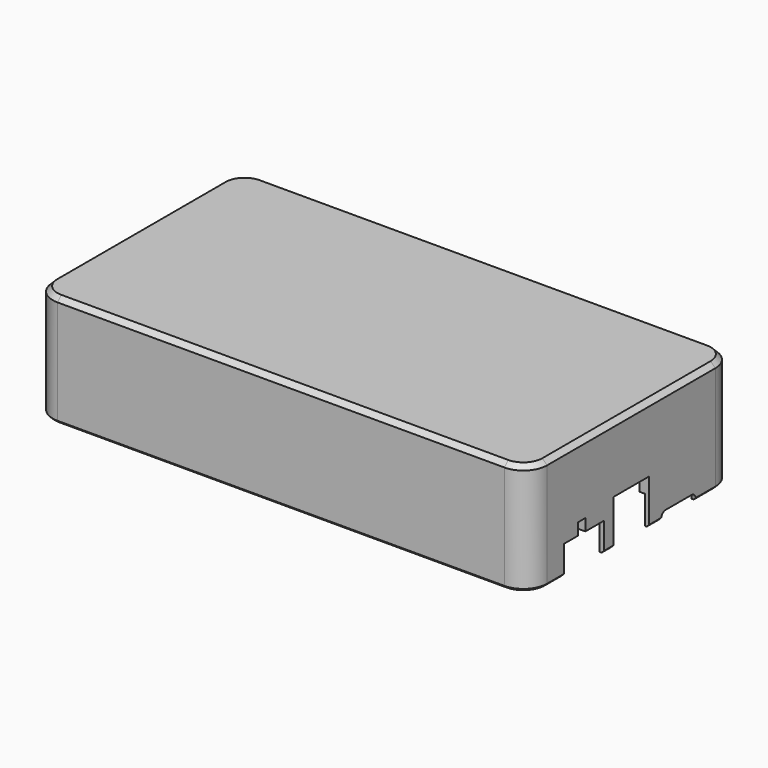
from build123d import *

# Parameters (mm, degrees)
PAD010_DEPTH                  = 23.5
POCKET028_DEPTH               = 6
PAD010_MIRRORED018_2_DEPTH    = 23.5
POCKET028_MIRRORED018_2_DEPTH = 6
PAD015_DEPTH                  = 2
PAD015_MIRRORED021_2_DEPTH    = 2
POCKET036_DEPTH               = 30.5
PAD016_DEPTH                  = 19.5
PAD016_FACE36_W               = 39
PAD016_FACE36_H               = 1.2
POCKET037_DEPTH               = 0.2
CHAMFER022_SIZE               = 0.5
CHAMFER020_SIZE               = 1
CHAMFER024_SIZE               = 0.2999
POCKET046_DEPTH               = 10
SKETCH049_W                   = 9.4
SKETCH049_H                   = 50
POCKET033_DEPTH               = 15
POCKET041_DEPTH               = 5
POCKET044_DEPTH               = 10
POCKET040_DEPTH               = 10
POCKET042_DEPTH               = 10
POCKET043_DEPTH               = 10
POCKET030_DEPTH               = 10


with BuildPart() as part:
    # Sketch033 (on DatumPlane) → Pad010 (new body)
    with BuildSketch(Plane.XY.offset(33)):
        with BuildLine():
            ThreePointArc((-47.2, 27.2), (-50.735534, 25.735534), (-52.2, 22.2))
            Line((-52.2, 0), (-52.2, 22.2))
            Line((-50.2, 0), (-52.2, 0))
            Line((-50.2, 22.2), (-50.2, 0))
            ThreePointArc((-47.2, 25.2), (-49.32132, 24.32132), (-50.2, 22.2))
            Line((0, 25.2), (-47.2, 25.2))
            Line((0, 27.2), (0, 25.2))
            Line((-47.2, 27.2), (0, 27.2))
        make_face()
    pad010 = extrude(amount=-PAD010_DEPTH)

    # Sketch031 (on Face10 of Pad010) → Pocket028 (cut)
    with BuildSketch(Plane(origin=(0, 0, 9.5), x_dir=(1, 0, 0), z_dir=(0, 0, -1))):
        with BuildLine():
            ThreePointArc((-50.2, -22.2), (-49.32132, -24.32132), (-47.2, -25.2))
            Line((-47.2, -25.2), (0, -25.2))
            Line((0, -25.2), (0, -26.3))
            Line((0, -26.3), (-47.2, -26.3))
            ThreePointArc((-51.3, -22.2), (-50.099138, -25.099138), (-47.2, -26.3))
            Line((-51.3, 0), (-51.3, -22.2))
            Line((-50.2, 0), (-51.3, 0))
            Line((-50.2, -22.2), (-50.2, 0))
        make_face()
    pocket028 = extrude(amount=-POCKET028_DEPTH, mode=Mode.SUBTRACT)

    # Sketch033 Mirrored018 2 → Pad010 Mirrored018 2 (add)
    with BuildSketch(Plane(origin=(0, 0, 33), x_dir=(-1, 0, 0), z_dir=(0, 0, -1))):
        with BuildLine():
            ThreePointArc((-47.2, 27.2), (-50.735534, 25.735534), (-52.2, 22.2))
            Line((-52.2, 0), (-52.2, 22.2))
            Line((-50.2, 0), (-52.2, 0))
            Line((-50.2, 22.2), (-50.2, 0))
            ThreePointArc((-47.2, 25.2), (-49.32132, 24.32132), (-50.2, 22.2))
            Line((0, 25.2), (-47.2, 25.2))
            Line((0, 27.2), (0, 25.2))
            Line((-47.2, 27.2), (0, 27.2))
        make_face()
    pad010_mirrored018_2 = extrude(amount=PAD010_MIRRORED018_2_DEPTH)

    # Sketch031 Mirrored018 2 → Pocket028 Mirrored018 2 (cut)
    with BuildSketch(Plane(origin=(0, 0, 9.5), x_dir=(-1, 0, 0), z_dir=(0, 0, 1))):
        with BuildLine():
            ThreePointArc((-50.2, -22.2), (-49.32132, -24.32132), (-47.2, -25.2))
            Line((-47.2, -25.2), (0, -25.2))
            Line((0, -25.2), (0, -26.3))
            Line((0, -26.3), (-47.2, -26.3))
            ThreePointArc((-51.3, -22.2), (-50.099138, -25.099138), (-47.2, -26.3))
            Line((-51.3, 0), (-51.3, -22.2))
            Line((-50.2, 0), (-51.3, 0))
            Line((-50.2, -22.2), (-50.2, 0))
        make_face()
    pocket028_mirrored018_2 = extrude(amount=POCKET028_MIRRORED018_2_DEPTH, mode=Mode.SUBTRACT)

    # Mirrored020: Pad010, Pocket028, Pad010 Mirrored018 2, Pocket028 Mirrored018 2 across Sketch033 H_Axis
    add(pad010.mirror(Plane(origin=(0, 0, 33), x_dir=(0, 0, 1), z_dir=(0, 1, 0))))
    add(pocket028.mirror(Plane(origin=(0, 0, 33), x_dir=(0, 0, 1), z_dir=(0, 1, 0))), mode=Mode.SUBTRACT)
    add(pad010_mirrored018_2.mirror(Plane(origin=(0, 0, 33), x_dir=(0, 0, 1), z_dir=(0, 1, 0))))
    add(pocket028_mirrored018_2.mirror(Plane(origin=(0, 0, 33), x_dir=(0, 0, 1), z_dir=(0, 1, 0))), mode=Mode.SUBTRACT)

    # Sketch044 (on DatumPlane) → Pad015 (join)
    with BuildSketch(Plane.XY.offset(33)):
        with BuildLine():
            ThreePointArc((-47.2, 25.2), (-49.32132, 24.32132), (-50.2, 22.2))
            Line((-50.2, 22.2), (-50.2, 0))
            Line((-50.2, 0), (0, 0))
            Line((0, 0), (0, 25.2))
            Line((0, 25.2), (-47.2, 25.2))
        make_face()
    pad015 = extrude(amount=-PAD015_DEPTH)

    # Sketch044 Mirrored021 2 → Pad015 Mirrored021 2 (add)
    with BuildSketch(Plane(origin=(0, 0, 33), x_dir=(-1, 0, 0), z_dir=(0, 0, -1))):
        with BuildLine():
            ThreePointArc((-47.2, 25.2), (-49.32132, 24.32132), (-50.2, 22.2))
            Line((-50.2, 22.2), (-50.2, 0))
            Line((-50.2, 0), (0, 0))
            Line((0, 0), (0, 25.2))
            Line((0, 25.2), (-47.2, 25.2))
        make_face()
    pad015_mirrored021_2 = extrude(amount=PAD015_MIRRORED021_2_DEPTH)

    # Mirrored027: Pad015, Pad015 Mirrored021 2 across Sketch044 H_Axis
    add(pad015.mirror(Plane(origin=(0, 0, 33), x_dir=(0, 0, 1), z_dir=(0, 1, 0))))
    add(pad015_mirrored021_2.mirror(Plane(origin=(0, 0, 33), x_dir=(0, 0, 1), z_dir=(0, 1, 0))))

    # Sketch055 → Pocket036 (cut, symmetric)
    with BuildSketch(Plane.YZ):
        with BuildLine():
            ThreePointArc((-26.1, 12.9), (-26.7, 12.3), (-26.1, 11.7))
            Line((-26.1, 12.9), (-26.1, 11.7))
        make_face()
    pocket036 = extrude(amount=POCKET036_DEPTH, both=True, mode=Mode.SUBTRACT)

    # Sketch055 → Pad016 (join, symmetric)
    with BuildSketch(Plane.YZ):
        with BuildLine():
            ThreePointArc((-26.1, 12.9), (-26.7, 12.3), (-26.1, 11.7))
            Line((-26.1, 12.9), (-26.1, 11.7))
        make_face()
    pad016 = extrude(amount=PAD016_DEPTH, both=True)

    # Pad016 Face36 → Pocket037 (cut)
    with BuildSketch(Plane(origin=(0, -26.1, 12.3), x_dir=(1, 0, 0), z_dir=(0, 1, 0))):
        Rectangle(PAD016_FACE36_W, PAD016_FACE36_H)
    pocket037 = extrude(amount=-POCKET037_DEPTH, mode=Mode.SUBTRACT)

    # Mirrored028: Pocket036, Pad016, Pocket037 across Sketch055 V_Axis
    add(pocket036.mirror(Plane(origin=(0, 0, 0), x_dir=(1, 0, 0), z_dir=(0, 1, 0))), mode=Mode.SUBTRACT)
    add(pad016.mirror(Plane(origin=(0, 0, 0), x_dir=(1, 0, 0), z_dir=(0, 1, 0))))
    add(pocket037.mirror(Plane(origin=(0, 0, 0), x_dir=(1, 0, 0), z_dir=(0, 1, 0))), mode=Mode.SUBTRACT)

    # Chamfer022
    chamfer022_edges = [part.edges().sort_by_distance(p)[0] for p in [
        (0, -27.2, 9.5),
    ]]
    chamfer(chamfer022_edges, length=CHAMFER022_SIZE)

    # Chamfer020
    chamfer020_edges = [part.edges().sort_by_distance(p)[0] for p in [
        (0, -27.2, 33),
    ]]
    chamfer(chamfer020_edges, length=CHAMFER020_SIZE)

    # Chamfer024
    chamfer024_edges = [part.edges().sort_by_distance(p)[0] for p in [
        (50.2, 0, 31),
    ]]
    chamfer(chamfer024_edges, length=CHAMFER024_SIZE)

    # Sketch041 (on DatumPlane) → Pocket046 (cut)
    with BuildSketch(Plane.YZ.offset(52.2)):
        Polygon((-7.2, 7.6), (-7.2, 15.6), (-12.1, 15.6), (-12.1, 18.1), (-14.1, 18.1), (-14.1, 15.6), (-17.8, 15.6), (-17.8, 7.6), (-17.8, 2.6), (-7.2, 2.6), align=None)
    extrude(amount=-POCKET046_DEPTH, mode=Mode.SUBTRACT)

    # Sketch049 (on DatumPlane) → Pocket033 (cut)
    with BuildSketch(Plane.YZ.offset(52.2)):
        with Locations((0, -6)):
            Rectangle(SKETCH049_W, SKETCH049_H)
    extrude(amount=-POCKET033_DEPTH, mode=Mode.SUBTRACT)

    # Sketch056 (on DatumPlane) → Pocket041 (cut)
    with BuildSketch(Plane.YZ.offset(52.2)):
        with BuildLine():
            Line((7.9, -40.25), (7.9, 9.75))
            ThreePointArc((9.15, 11), (8.266117, 10.633883), (7.9, 9.75))
            Line((9.15, 11), (15.85, 11))
            ThreePointArc((17.1, 9.75), (16.733883, 10.633883), (15.85, 11))
            Line((17.1, 9.75), (17.1, -40.25))
            Line((7.9, -40.25), (17.1, -40.25))
        make_face()
    extrude(amount=-POCKET041_DEPTH, mode=Mode.SUBTRACT)

    # Sketch050 (on DatumPlane) → Pocket044 (cut)
    with BuildSketch(Plane(origin=(-52.2, 0, 0), x_dir=(0, -1, 0), z_dir=(-1, 0, 0))):
        Polygon((-15.02, 7.6), (-15.02, 15.6), (-20.32, 15.6), (-20.32, 18.1), (-22.32, 18.1), (-22.32, 15.6), (-25.62, 15.6), (-25.62, 7.6), (-25.62, -42.4), (-15.02, -42.4), align=None)
    extrude(amount=-POCKET044_DEPTH, mode=Mode.SUBTRACT)

    # Sketch046 (on DatumPlane) → Pocket040 (cut)
    with BuildSketch(Plane(origin=(-52.2, 0, 0), x_dir=(0, -1, 0), z_dir=(-1, 0, 0))):
        Polygon((-4.86, 7.6), (-4.86, 15.6), (-10.16, 15.6), (-10.16, 18.1), (-12.16, 18.1), (-12.16, 15.6), (-15.46, 15.6), (-15.46, 7.6), (-15.46, -42.4), (-4.86, -42.4), align=None)
    extrude(amount=-POCKET040_DEPTH, mode=Mode.SUBTRACT)

    # Sketch057 (on DatumPlane) → Pocket042 (cut)
    with BuildSketch(Plane(origin=(-52.2, 0, 0), x_dir=(0, -1, 0), z_dir=(-1, 0, 0))):
        Polygon((5.3, 7.6), (5.3, 15.6), (0, 15.6), (0, 18.1), (-2, 18.1), (-2, 15.6), (-5.3, 15.6), (-5.3, 7.6), (-5.3, -42.4), (5.3, -42.4), align=None)
    extrude(amount=-POCKET042_DEPTH, mode=Mode.SUBTRACT)

    # Sketch054 (on DatumPlane) → Pocket043 (cut)
    with BuildSketch(Plane(origin=(-52.2, 0, 0), x_dir=(0, -1, 0), z_dir=(-1, 0, 0))):
        Polygon((15.46, 7.6), (15.46, 15.6), (10.16, 15.6), (10.16, 18.1), (8.16, 18.1), (8.16, 15.6), (4.86, 15.6), (4.86, 7.6), (4.86, -42.4), (15.46, -42.4), align=None)
    extrude(amount=-POCKET043_DEPTH, mode=Mode.SUBTRACT)

    # Sketch039 (on DatumPlane) → Pocket030 (cut)
    with BuildSketch(Plane(origin=(-52.2, 0, 0), x_dir=(0, -1, 0), z_dir=(-1, 0, 0))):
        Polygon((25.62, 7.6), (25.62, 15.6), (20.32, 15.6), (20.32, 18.1), (18.32, 18.1), (18.32, 15.6), (15.02, 15.6), (15.02, 7.6), (15.02, -42.4), (25.62, -42.4), align=None)
    extrude(amount=-POCKET030_DEPTH, mode=Mode.SUBTRACT)


solid = part.part
